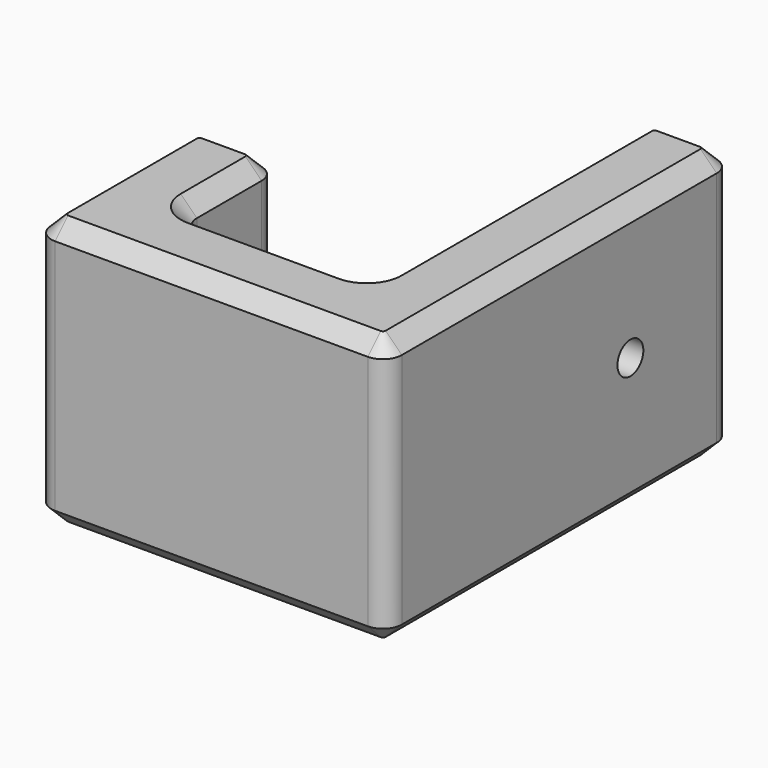
from build123d import *

# Parameters (mm, degrees)
PAD_DEPTH       = 50
CHAMFER_SIZE    = 3
CHAMFER001_SIZE = 3
SKETCH001_R     = 3
POCKET_DEPTH    = 15.11578
CHAMFER002_SIZE = 2


with BuildPart() as part:
    # Sketch → Pad (new body)
    with BuildSketch(Plane.XY):
        with BuildLine():
            Line((-35.88522, 9.618171), (-35.88522, -20.381829))
            ThreePointArc((-35.88522, -20.381829), (-34.860094, -22.856703), (-32.38522, -23.881829))
            Line((-32.38522, -23.881829), (25.61478, -23.881829))
            ThreePointArc((25.61478, -23.881829), (28.089653, -22.856703), (29.11478, -20.381829))
            Line((29.11478, -20.381829), (29.11478, 52.618171))
            ThreePointArc((29.11478, 52.618171), (28.089653, 55.093044), (25.61478, 56.118171))
            Line((25.61478, 56.118171), (17.61478, 56.118171))
            ThreePointArc((17.61478, 56.118171), (15.139906, 55.093044), (14.11478, 52.618171))
            Line((14.11478, 52.618171), (14.11478, -5.381829))
            ThreePointArc((10.61478, -8.881829), (13.089653, -7.856703), (14.11478, -5.381829))
            Line((10.61478, -8.881829), (-17.38522, -8.881829))
            ThreePointArc((-20.88522, -5.381829), (-19.860094, -7.856703), (-17.38522, -8.881829))
            Line((-20.88522, -5.381829), (-20.88522, 9.618171))
            ThreePointArc((-20.88522, 9.618171), (-21.910347, 12.093044), (-24.38522, 13.118171))
            Line((-24.38522, 13.118171), (-32.38522, 13.118171))
            ThreePointArc((-32.38522, 13.118171), (-34.860094, 12.093044), (-35.88522, 9.618171))
        make_face()
    extrude(amount=PAD_DEPTH)

    # Chamfer
    chamfer_edges = [part.edges().sort_by_distance(p)[0] for p in [
        (29.11478, 16.118171, 0),
    ]]
    chamfer(chamfer_edges, length=CHAMFER_SIZE)

    # Chamfer001
    chamfer001_edges = [part.edges().sort_by_distance(p)[0] for p in [
        (29.11478, 16.118171, 50),
    ]]
    chamfer(chamfer001_edges, length=CHAMFER001_SIZE)

    # Sketch001 (on DatumPlane) → Pocket (cut, through all)
    with BuildSketch(Plane(origin=(14, 0, 0), x_dir=(0, 0, -1), z_dir=(1, 0, 0))):
        with Locations((-25, 32.618171)):
            Circle(SKETCH001_R)
    extrude(amount=POCKET_DEPTH, mode=Mode.SUBTRACT)

    # Chamfer002
    chamfer002_edges = [part.edges().sort_by_distance(p)[0] for p in [
        (14.11478, 32.618171, 28),
    ]]
    chamfer(chamfer002_edges, length=CHAMFER002_SIZE)


solid = part.part
